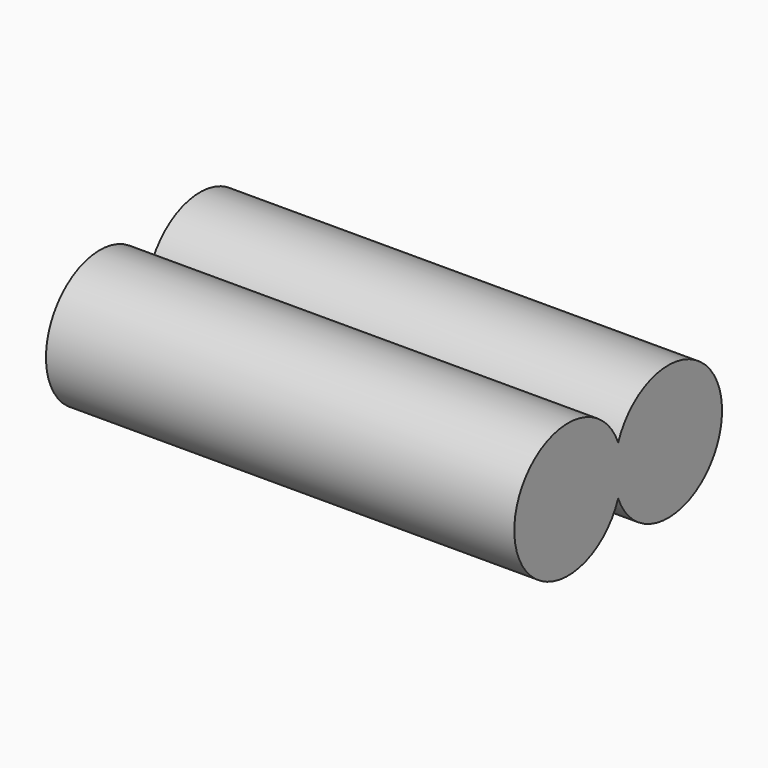
from build123d import *

# Parameters (mm, degrees)
F0_R     = 7.25
F1_DEPTH = 25.25
F3_R     = 11
F3_R_2   = 6.35
F4_DEPTH = 7.25


with BuildPart() as f1:
    # F0 (on Right) → F1 (new body, symmetric)
    with BuildSketch(Plane.YZ):
        with Locations((6.75, 0)):
            Circle(F0_R)
    extrude(amount=F1_DEPTH, both=True)

    # F2: F1 across plane


with BuildPart() as f1_1:
    add(f1.part)
    add(f1.part.mirror(Plane.XZ))


with BuildPart() as f4:
    # F3 (on Top) → F4 (new body, symmetric)
    with BuildSketch(Plane.XY):
        Circle(F3_R)
        Circle(F3_R_2, mode=Mode.SUBTRACT)
    extrude(amount=F4_DEPTH, both=True)


solid = f1_1.part
